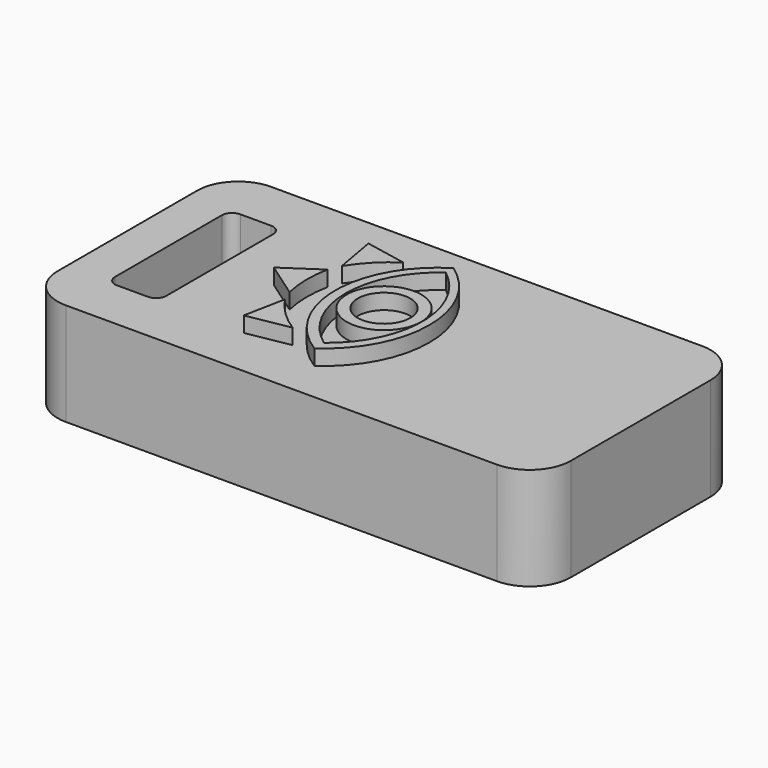
from build123d import *

# Parameters (mm, degrees)
F0_W     = 50
F0_H     = 25
F1_DEPTH = 10
F2_R     = 4
F3_W     = 5
F3_H     = 15
F4_DEPTH = 25
F5_R     = 1
F6_R     = 3.6231488333
F6_R_2   = 2.5645914907
F7_DEPTH = 1.5


with BuildPart() as f1:
    # F0 (on Top) → F1 (new body)
    with BuildSketch(Plane.XY):
        Rectangle(F0_W, F0_H)
    extrude(amount=F1_DEPTH)

    # F2
    f2_edges = [f1.edges().sort_by_distance(p)[0] for p in [
        (-25, -12.5, 5),
        (25, -12.5, 5),
        (25, 12.5, 5),
        (-25, 12.5, 5),
    ]]
    fillet(f2_edges, radius=F2_R)

    # F3 (on face) → F4 (cut)
    with BuildSketch(Plane.XY.offset(10)):
        with Locations((-18.5, 0)):
            Rectangle(F3_W, F3_H)
    extrude(amount=-F4_DEPTH, mode=Mode.SUBTRACT)

    # F5
    f5_edges = [f1.edges().sort_by_distance(p)[0] for p in [
        (-21, 7.5, 5),
        (-21, -7.5, 5),
        (-16, 7.5, 5),
        (-16, -7.5, 5),
    ]]
    fillet(f5_edges, radius=F5_R)

    # F6 (on face) → F7 (join)
    with BuildSketch(Plane.XY.offset(10)):
        with BuildLine():
            ThreePointArc((0, -8.4754349664), (4.4343331639, -0.0092051923), (0, 8.4570245817))
            ThreePointArc((0, 8.4570245817), (-4.7324505421, -0.0092051923), (0, -8.4754349664))
        make_face()
        with BuildLine():
            ThreePointArc((0, -7.3103578761), (-3.8122546037, 0.107302476), (0, 7.524962828))
            ThreePointArc((0, 7.524962828), (3.6492929607, 0.107302476), (0, -7.3103578761))
        make_face(mode=Mode.SUBTRACT)
        Circle(F6_R)
        Circle(F6_R_2, mode=Mode.SUBTRACT)
        with BuildLine():
            Line((-7.5879783359, -7.5879783359), (-3.4245205097, -6.8479519513))
            ThreePointArc((-3.4245205097, -6.8479519513), (-5.2850781661, -5.385812279), (-6.795665493, -3.5643696799))
            Line((-6.795665493, -3.5643696799), (-7.5879783359, -7.5879783359))
        make_face()
        with BuildLine():
            ThreePointArc((-7.2637349367, -2.4207315873), (-7.545458995, -0.0712297744), (-7.3256511241, 2.2848711815))
            Line((-7.3256511241, 2.2848711815), (-10.7310218737, 0))
            Line((-10.7310218737, 0), (-7.2637349367, -2.4207315873))
        make_face()
        with BuildLine():
            Line((-3.5643696799, 6.795665493), (-7.5879783359, 7.5879783359))
            Line((-7.5879783359, 7.5879783359), (-6.8479519513, 3.4245205097))
            ThreePointArc((-6.8479519513, 3.4245205097), (-5.385812279, 5.2850781661), (-3.5643696799, 6.795665493))
        make_face()
    extrude(amount=F7_DEPTH)


solid = f1.part
